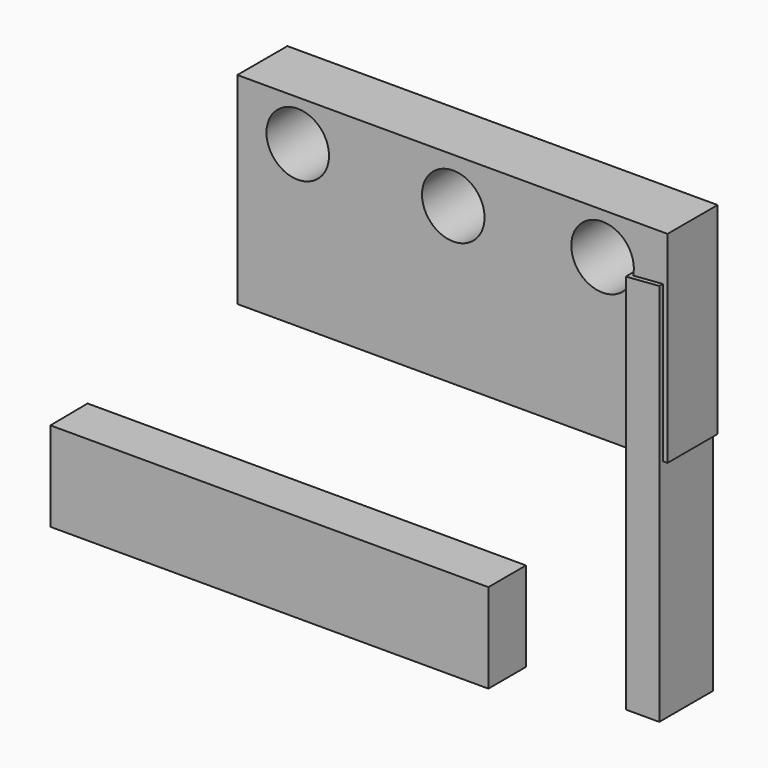
from build123d import *

# Parameters (mm, degrees)
F2_DEPTH  = 17.78
F0_W      = 122.2848854959
F0_H      = 57.3165342212
F3_DEPTH  = 17.78
F5_D      = 17.78
F8_D      = 17.78
F10_D     = 17.78
F12_DEPTH = 25.4
F14_DEPTH = 19.05


with BuildPart() as f2:
    # F1 (on face) → F2 (new body)
    with BuildSketch(Plane.XZ):
        Polygon((60.7268549502, 56.2854819), (-60.6423653662, 56.8059794605), (-60.6423653662, 0), (60.7268549502, 0), align=None)
    extrude(amount=F2_DEPTH)

    # F0 (on Front) → F3 (join)
    with BuildSketch(Plane.XZ):
        with Locations((-0.2439823002, 28.6582671106)):
            Rectangle(F0_W, F0_H)
    extrude(amount=F3_DEPTH)

    # F5 (through all)
    with Locations(Plane(origin=(0, 0, 0), x_dir=(1, 0, 0), z_dir=(0, 1, 0))):
        with Locations((-44.2115999758, -45.5798208714)):
            Hole(F5_D / 2)

    # F8 (through all)
    with Locations(Plane.XZ.offset(17.78)):
        with Locations((0, 44.4866754115)):
            Hole(F8_D / 2)

    # F10 (through all)
    with Locations(Plane.XZ.offset(17.78)):
        with Locations((42.4278005958, 45.4948619008)):
            Hole(F10_D / 2)

    # F13 (on Front) → F14 (join)
    with BuildSketch(Plane.XZ):
        Polygon((59.5622695982, -64.7262334824), (59.5622695982, 44.3564802408), (50.0612705946, 43.6321347952), (50.0612705946, -64.7262334824), align=None)
    extrude(amount=F14_DEPTH)


with BuildPart() as f12:
    # F11 (on Top) → F12 (new body)
    with BuildSketch(Plane.XY):
        Polygon((67.1438127756, -75.8713409305), (-57.4876181781, -75.8713409305), (-57.3438629508, -89.2470777035), (67.1438127756, -89.2470777035), align=None)
    extrude(amount=-F12_DEPTH)


solid = Compound([f2.part, f12.part])
